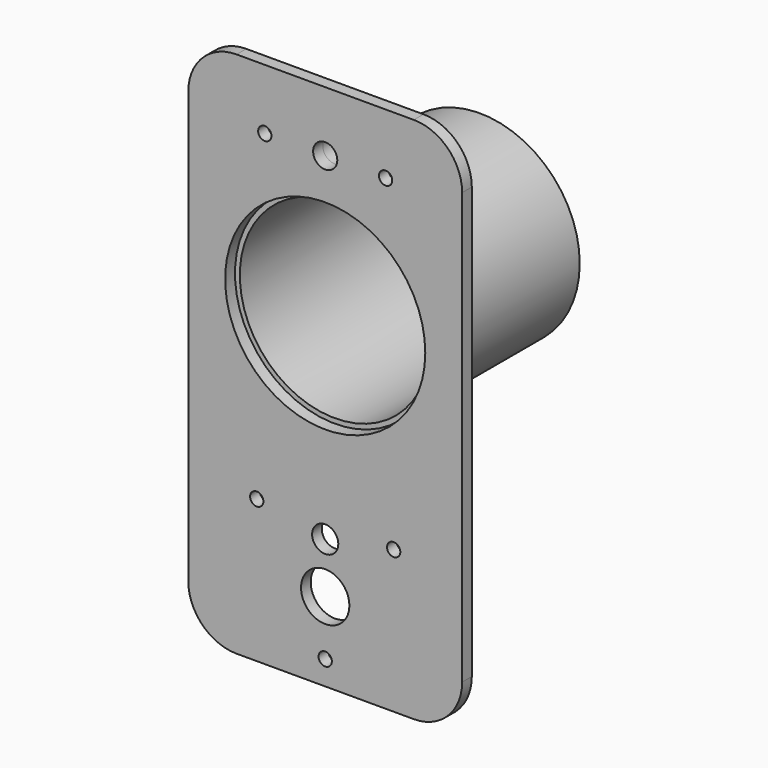
from build123d import *

# Parameters (mm, degrees)
F0_W     = 68
F0_H     = 131
F0_R     = 6
F0_R_2   = 3.25
F0_R_3   = 24.85
F0_R_4   = 3
F1_DEPTH = 3
F2_R     = 24.85
F2_R_2   = 3
F3_DEPTH = 5
F4_D     = 3.3
F5_R     = 12
F6_R     = 24.8
F6_R_2   = 23.6
F7_DEPTH = 45


with BuildPart() as f1:
    # F0 (on Front) → F1 (new body)
    with BuildSketch(Plane.XZ):
        Rectangle(F0_W, F0_H)
        with Locations((0, -45.8700908476)):
            Circle(F0_R, mode=Mode.SUBTRACT)
        with Locations((0, -33.3051362713)):
            Circle(F0_R_2, mode=Mode.SUBTRACT)
        with Locations((0, 15.5)):
            Circle(F0_R_3, mode=Mode.SUBTRACT)
        with Locations((0, 50.5)):
            Circle(F0_R_4, mode=Mode.SUBTRACT)
    extrude(amount=F1_DEPTH)

    # F2 (on face) → F3 (join)
    with BuildSketch(Plane(origin=(0, 0, 0), x_dir=(-1, 0, 0), z_dir=(0, 1, 0))):
        with BuildLine():
            Line((-23.6, -57.5), (-23.6, 4.5894546424))
            ThreePointArc((-23.6, 4.5894546424), (0, -10.5), (23.6, 4.5894546424))
            Line((23.6, 4.5894546424), (23.6, -57.5))
            Line((23.6, -57.5), (26, -57.5))
            Line((26, -57.5), (26, 15.5))
            ThreePointArc((26, 15.5), (24.8068601529, 23.2858647145), (21.3369469729, 30.3571428571))
            Line((21.3369469729, 30.3571428571), (4.9239108399, 53.9285714286))
            ThreePointArc((4.9239108399, 53.9285714286), (0, 56.5), (-4.9239108399, 53.9285714286))
            Line((-4.9239108399, 53.9285714286), (-21.3369469729, 30.3571428571))
            ThreePointArc((-21.3369469729, 30.3571428571), (-24.8068601529, 23.2858647145), (-26, 15.5))
            Line((-26, 15.5), (-26, -57.5))
            Line((-26, -57.5), (-23.6, -57.5))
        make_face()
        with Locations((0, 15.5)):
            Circle(F2_R, mode=Mode.SUBTRACT)
        with Locations((0, 50.5)):
            Circle(F2_R_2, mode=Mode.SUBTRACT)
    extrude(amount=F3_DEPTH)

    # F4 (through all)
    with Locations(Plane(origin=(0, 0, 0), x_dir=(1, 0, 0), z_dir=(0, 1, 0))):
        with Locations((-15, -50.5), (15, -50.5), (-17, 30.0551362713), (17, 30.0551362713), (0, 59.5)):
            Hole(F4_D / 2)

    # F5
    f5_edges = [f1.edges().sort_by_distance(p)[0] for p in [
        (-34, -1.5, 65.5),
        (34, -1.5, 65.5),
        (-34, -1.5, -65.5),
        (34, -1.5, -65.5),
    ]]
    fillet(f5_edges, radius=F5_R)


with BuildPart() as f7:
    # F6 (on Front) → F7 (new body)
    with BuildSketch(Plane.XZ):
        with Locations((0, 15.5)):
            Circle(F6_R)
        with Locations((0, 15.5)):
            Circle(F6_R_2, mode=Mode.SUBTRACT)
    extrude(amount=-F7_DEPTH)


solid = Compound([f1.part, f7.part])
